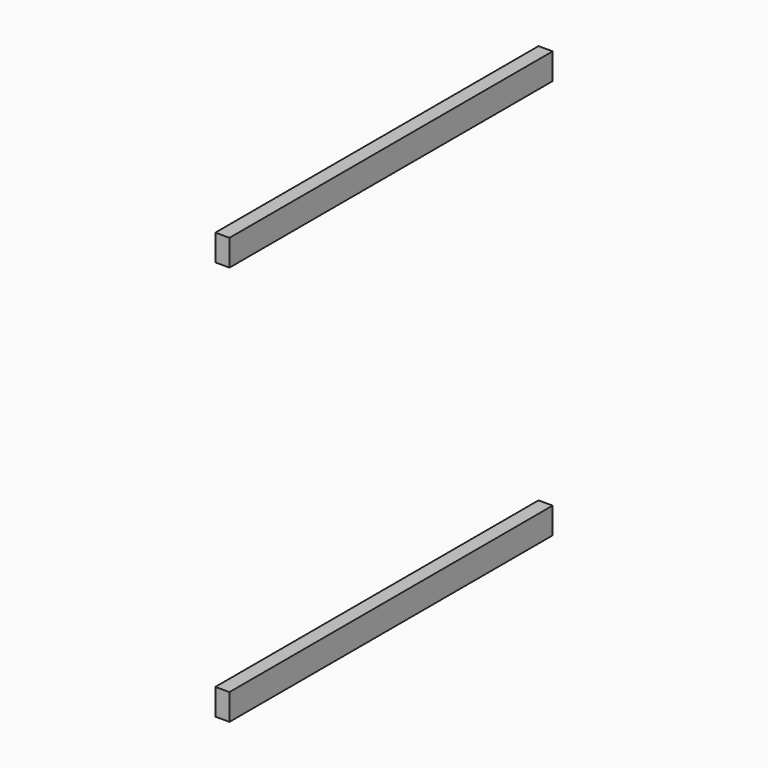
from build123d import *

# Parameters (mm, degrees)
F0_W     = 14
F0_H     = 26
F1_DEPTH = 200


with BuildPart() as f1:
    # F0 (on Front) → F1 (new body, symmetric)
    with BuildSketch(Plane.XZ):
        with Locations((-10.063001, -127.979211)):
            Rectangle(F0_W, F0_H)
        with Locations((-10.063001, 268.020789)):
            Rectangle(F0_W, F0_H)
    extrude(amount=F1_DEPTH, both=True)


solid = f1.part
